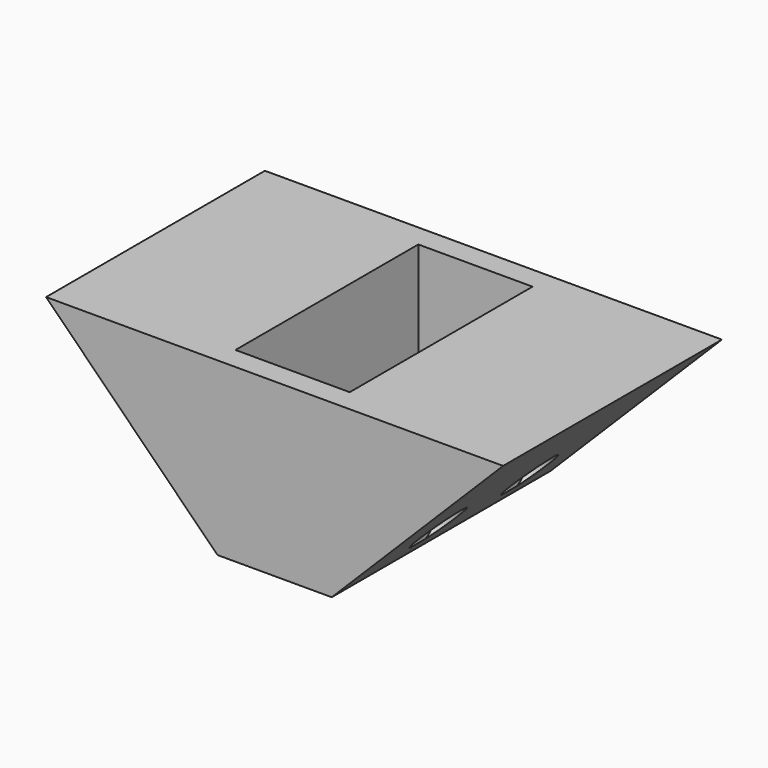
from build123d import *

# Parameters (mm, degrees)
F0_W          = 25.4
F0_H          = 38.1
F1_DEPTH      = 5
F2_DEPTH      = 50.8
F3_W          = 25.4
F3_H          = 38.1
F4_DEPTH      = 5
F5_R          = 2
F6_DEPTH      = 50.801
F6_DEPTH_BACK = 50.801
F8_R          = 5
F9_DEPTH      = 33.1


with BuildPart() as f1:
    # F0 (on Front) → F1 (new body)
    with BuildSketch(Plane.XZ):
        Polygon((-12.7, 63.5), (-50.8, 63.5), (-12.7, 25.4), align=None)
        with Locations((0, 44.45)):
            Rectangle(F0_W, F0_H)
        Polygon((12.7, 63.5), (12.7, 25.4), (50.8, 63.5), align=None)
    extrude(amount=F1_DEPTH)

    # F0 (on Front) → F2 (join)
    with BuildSketch(Plane.XZ):
        Polygon((12.7, 63.5), (12.7, 25.4), (50.8, 63.5), align=None)
        Polygon((-12.7, 63.5), (-50.8, 63.5), (-12.7, 25.4), align=None)
    extrude(amount=-F2_DEPTH)

    # F3 (on face) → F4 (join)
    with BuildSketch(Plane(origin=(0, 50.8, 0), x_dir=(-1, 0, 0), z_dir=(0, 1, 0))):
        Polygon((50.8, 63.5), (12.7, 63.5), (12.7, 25.4), align=None)
        with Locations((0, 44.45)):
            Rectangle(F3_W, F3_H)
        Polygon((-12.7, 25.4), (-12.7, 63.5), (-50.8, 63.5), align=None)
    extrude(amount=F4_DEPTH)

    # F5 (on Right) → F6 (cut, two sides)
    with BuildSketch(Plane.YZ) as f6_sk:
        with Locations((38.1, 34.925)):
            Circle(F5_R)
        with Locations((12.7, 34.925)):
            Circle(F5_R)
    extrude(amount=-F6_DEPTH, mode=Mode.SUBTRACT)
    extrude(f6_sk.sketch, amount=F6_DEPTH_BACK, mode=Mode.SUBTRACT)

    # F8 (on offset) → F9 (cut, through all)
    with BuildSketch(Plane.YZ.offset(50.8)):
        with Locations((38.1, 34.925)):
            Circle(F8_R)
        with Locations((12.7, 34.925)):
            Circle(F8_R)
    extrude(amount=-F9_DEPTH, mode=Mode.SUBTRACT)


solid = f1.part
